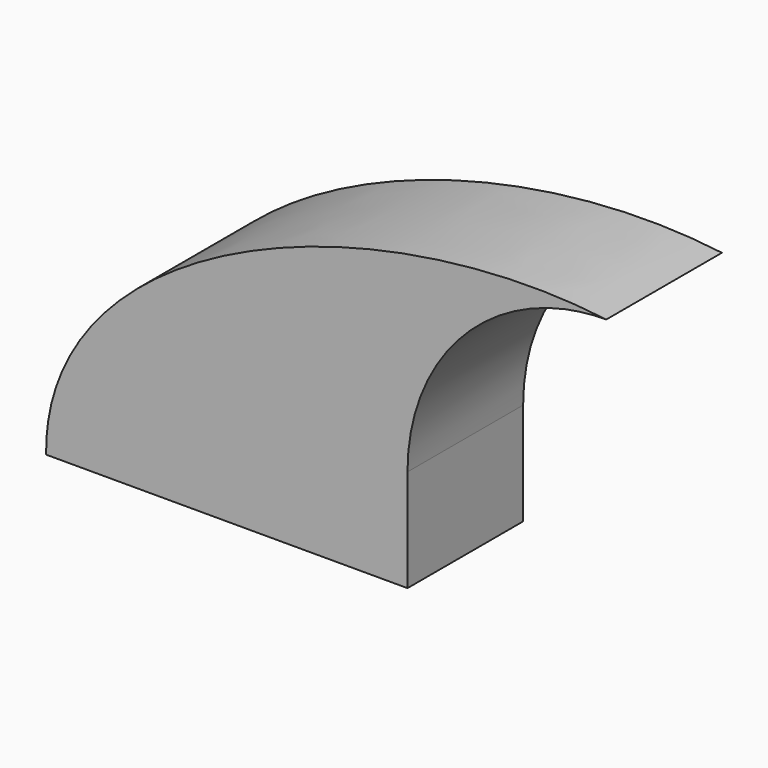
from build123d import *

# Parameters (mm, degrees)
F1_DEPTH = 25.4


with BuildPart() as f1:
    # F0 (on Front) → F1 (new body)
    with BuildSketch(Plane.XZ):
        with BuildLine():
            add(Edge.make_bspline(
                [(49.9644770319, 63.0774284212), (52.393843537, 62.9472017238), (54.79300995, 62.7333173603), (57.15, 62.4332)],
                knots=[105.5544877394, 105.5544877394, 105.5544877394, 105.5544877394, 111.7441642872, 111.7441642872, 111.7441642872, 111.7441642872], degree=3))
            Line((49.9644770319, 63.0774284212), (49.9644770319, 61.6860273838))
            ThreePointArc((49.9644770319, 61.6860273838), (53.5378674151, 62.2459046333), (57.15, 62.4332))
        make_face()
        with BuildLine():
            add(Edge.make_bspline(
                [(-41.275, 9.525), (-41.675668558, 43.1900786128), (8.5357311202, 65.298224973), (49.9644770319, 63.0774284212)],
                knots=[0, 0, 0, 0, 105.5544877394, 105.5544877394, 105.5544877394, 105.5544877394], degree=3))
            Line((-41.275, 9.525), (22.225, 9.525))
            Line((22.225, 9.525), (22.225, 27.5082))
            ThreePointArc((22.225, 27.5082), (30.0325700456, 49.5173030637), (49.9644770319, 61.6860273838))
            Line((49.9644770319, 61.6860273838), (49.9644770319, 63.0774284212))
        make_face()
    extrude(amount=F1_DEPTH)


solid = f1.part
